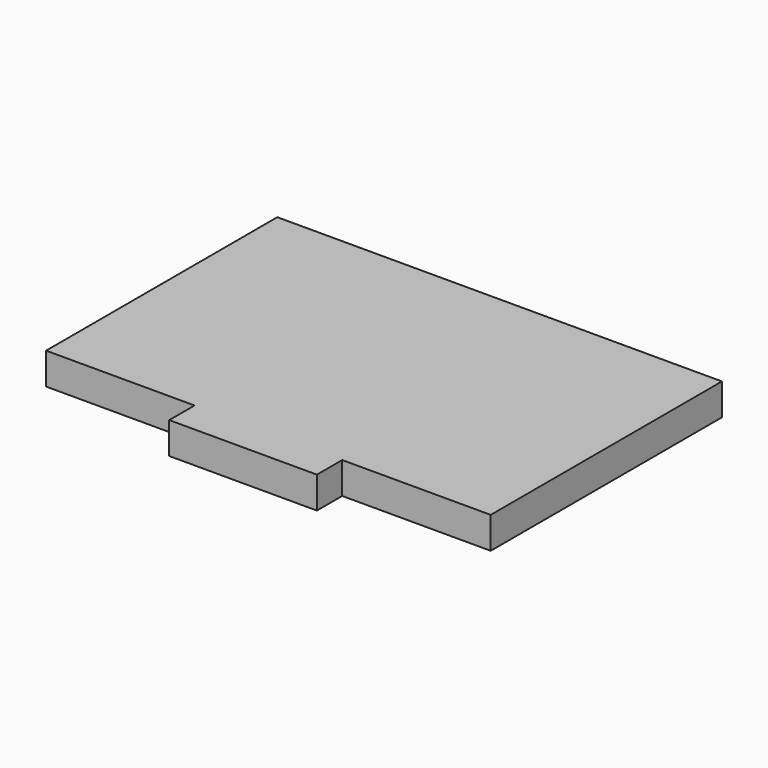
from build123d import *

# Parameters (mm, degrees)
F0_W     = 7
F0_H     = 3
F1_DEPTH = 3


with BuildPart() as f1:
    # F0 (on Top) → F1 (new body)
    with BuildSketch(Plane.XY):
        with Locations((-3.5, -15.2)):
            Rectangle(F0_W, F0_H)
        with Locations((3.5, -15.2)):
            Rectangle(F0_W, F0_H)
        Polygon((21.075, 13.7), (-21.075, 13.7), (-21.075, -13.7), (-7, -13.7), (0, -13.7), (7, -13.7), (21.075, -13.7), align=None)
    extrude(amount=F1_DEPTH)


solid = f1.part
